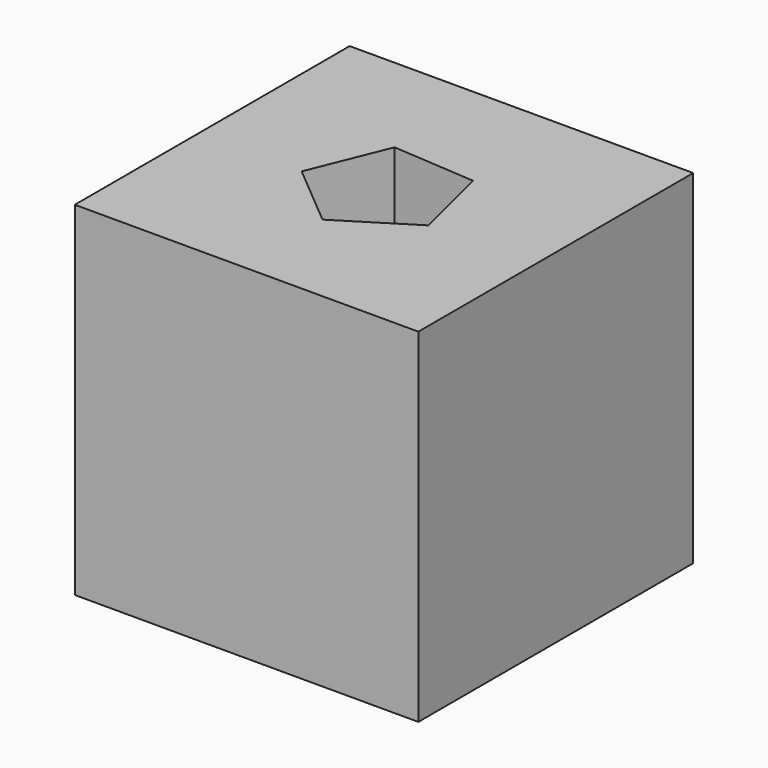
from build123d import *

# Parameters (mm, degrees)
F0_W     = 76.2
F0_H     = 76.2
F1_DEPTH = 76.2
F3_DEPTH = 76.2


with BuildPart() as f1:
    # F0 (on Top) → F1 (new body)
    with BuildSketch(Plane.XY):
        with Locations((-7.110626, 25.808547)):
            Rectangle(F0_W, F0_H)
    extrude(amount=F1_DEPTH)

    # F2 (on face) → F3 (cut)
    with BuildSketch(Plane.XY.offset(76.2)):
        Polygon((-8.220765, 10.149787), (7.438689, 19.913918), (2.991485, 37.824227), (-15.416492, 39.129274), (-22.346044, 22.02553), align=None)
        Polygon((-8.220765, 10.149787), (7.438689, 19.913918), (2.991485, 37.824227), (-15.416492, 39.129274), (-22.346044, 22.02553), align=None)
    extrude(amount=-F3_DEPTH, mode=Mode.SUBTRACT)


solid = f1.part
